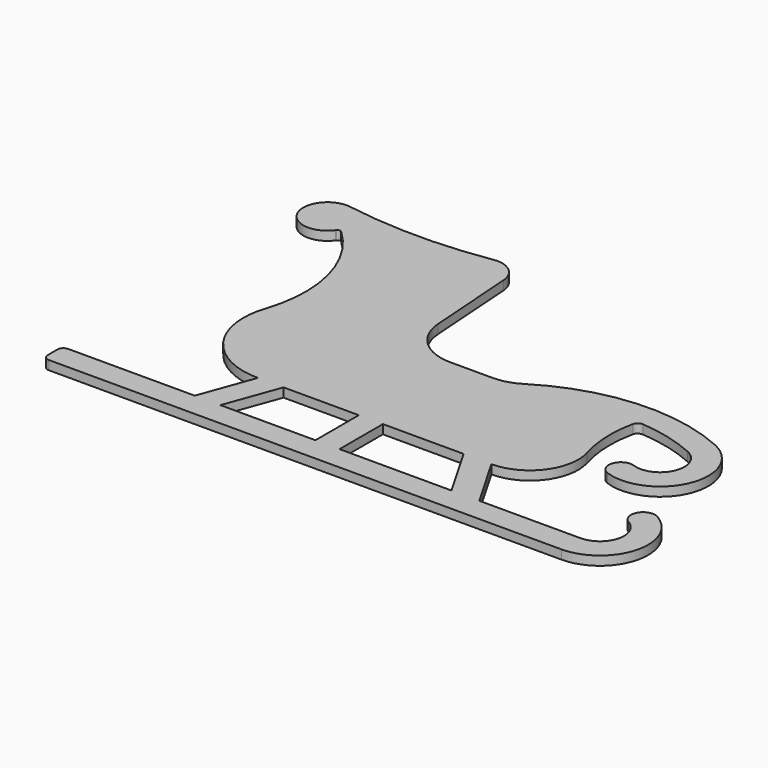
from build123d import *

# Parameters (mm, degrees)
F1_DEPTH = 19.05


with BuildPart() as f1:
    # F0 (on Top) → F1 (new body)
    with BuildSketch(Plane.XY):
        with BuildLine():
            ThreePointArc((0, 12.7), (3.719744, 3.719744), (12.7, 0))
            Line((12.7, 0), (1092.2, 0))
            ThreePointArc((1092.2, 0), (1190.338064, 75.303985), (1143, 189.588181))
            ThreePointArc((1143, 189.588181), (1108.302955, 180.291136), (1117.6, 145.594091))
            ThreePointArc((1117.6, 145.594091), (1141.269032, 88.451993), (1092.2, 50.8))
            Line((1092.2, 50.8), (878.791136, 50.8))
            Line((878.791136, 50.8), (812.8, 165.1))
            ThreePointArc((812.8, 165.1), (894.261227, 205.982387), (910.164789, 295.728571))
            ThreePointArc((910.164789, 295.728571), (899.765697, 358.504881), (905.295717, 421.89593))
            ThreePointArc((905.295717, 421.89593), (910.114134, 429.394361), (918.673792, 431.879492))
            ThreePointArc((918.673792, 431.879492), (978.98608, 422.021568), (1036.71981, 401.982426))
            ThreePointArc((1036.71981, 401.982426), (1063.176567, 336.75825), (999.066667, 307.705301))
            ThreePointArc((999.066667, 307.705301), (966.65265, 292.224618), (982.133333, 259.810601))
            ThreePointArc((982.133333, 259.810601), (1110.353134, 317.9165), (1057.43962, 448.364853))
            ThreePointArc((1057.43962, 448.364853), (863.498002, 482.727039), (676.176228, 421.861088))
            ThreePointArc((676.176228, 421.861088), (650.325404, 410.341735), (622.3, 406.4))
            Line((622.3, 406.4), (558.8, 406.4))
            Line((558.8, 406.4), (533.4, 406.4))
            ThreePointArc((533.4, 406.4), (464.088336, 433.713708), (432.043572, 500.969031))
            Line((432.043572, 500.969031), (418.978214, 689.315484))
            ThreePointArc((418.978214, 689.315484), (399.883474, 725.588493), (360.223688, 735.953895))
            ThreePointArc((360.223688, 735.953895), (209.55, 723.9), (58.876312, 735.953895))
            ThreePointArc((58.876312, 735.953895), (3.732035, 666.688571), (91.554555, 655.473341))
            ThreePointArc((91.554555, 655.473341), (92.209314, 656.333961), (92.882245, 657.18045))
            ThreePointArc((92.882245, 657.18045), (97.380607, 659.511653), (102.15271, 657.809651))
            ThreePointArc((102.15271, 657.809651), (181.9396, 522.570463), (176.185419, 365.654959))
            ThreePointArc((176.185419, 365.654959), (197.155914, 228.373841), (320.777465, 165.1))
            Line((320.777465, 165.1), (279.175668, 50.8))
            Line((279.175668, 50.8), (12.7, 50.8))
            ThreePointArc((12.7, 50.8), (3.719744, 47.080256), (0, 38.1))
            Line((0, 38.1), (0, 12.7))
        make_face()
        Polygon((333.235898, 50.8), (374.837696, 165.1), (533.4, 165.1), (533.4, 50.8), align=None, mode=Mode.SUBTRACT)
        Polygon((584.2, 50.8), (584.2, 165.1), (754.141213, 165.1), (820.132348, 50.8), align=None, mode=Mode.SUBTRACT)
    extrude(amount=F1_DEPTH)


solid = f1.part
